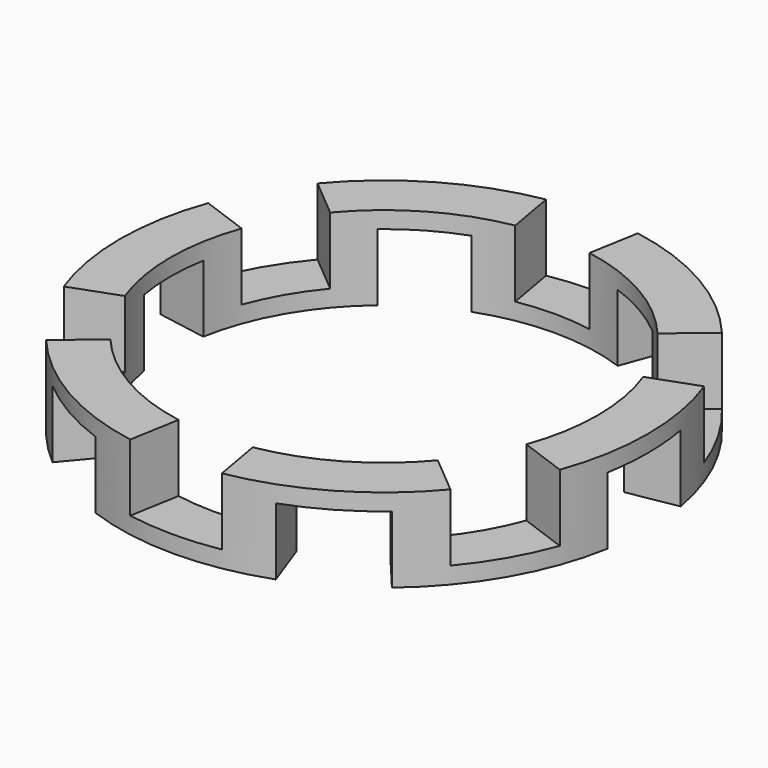
from build123d import *

# Parameters (mm, degrees)
F0_R     = 31.5
F0_R_2   = 25.5
F1_DEPTH = 5
F5_DEPTH = 25
F7_DEPTH = 25
F8_DEPTH = 4.25
F9_DEPTH = 4.25


with BuildPart() as f1:
    # F0 (on Top) → F1 (new body, symmetric)
    with BuildSketch(Plane.XY):
        Circle(F0_R)
        Circle(F0_R_2, mode=Mode.SUBTRACT)
    extrude(amount=F1_DEPTH, both=True)

    # F4 (on offset) → F5 (cut)
    with BuildSketch(Plane.XY.offset(1.25)):
        with BuildLine():
            ThreePointArc((19.5341332995, 16.391084047), (22.0836477965, 12.75), (23.96216183, 8.7215136548))
            Line((23.96216183, 8.7215136548), (29.6003175548, 10.7736345148))
            ThreePointArc((29.6003175548, 10.7736345148), (27.2798002192, 15.75), (24.1303999582, 20.2478097051))
            Line((24.1303999582, 20.2478097051), (19.5341332995, 16.391084047))
        make_face()
        with BuildLine():
            Line((-5.4699175965, 31.0214442199), (-4.4280285305, 25.1125977018))
            ThreePointArc((-4.4280285305, 25.1125977018), (0, 25.5), (4.4280285305, 25.1125977018))
            Line((4.4280285305, 25.1125977018), (5.4699175965, 31.0214442199))
            ThreePointArc((5.4699175965, 31.0214442199), (0, 31.5), (-5.4699175965, 31.0214442199))
        make_face()
        with BuildLine():
            Line((-29.6003175548, 10.7736345148), (-23.96216183, 8.7215136548))
            ThreePointArc((-23.96216183, 8.7215136548), (-22.0836477965, 12.75), (-19.5341332995, 16.391084047))
            Line((-19.5341332995, 16.391084047), (-24.1303999582, 20.2478097051))
            ThreePointArc((-24.1303999582, 20.2478097051), (-27.2798002192, 15.75), (-29.6003175548, 10.7736345148))
        make_face()
        with BuildLine():
            Line((-24.1303999582, -20.2478097051), (-19.5341332995, -16.391084047))
            ThreePointArc((-19.5341332995, -16.391084047), (-22.0836477965, -12.75), (-23.96216183, -8.7215136548))
            Line((-23.96216183, -8.7215136548), (-29.6003175548, -10.7736345148))
            ThreePointArc((-29.6003175548, -10.7736345148), (-27.2798002192, -15.75), (-24.1303999582, -20.2478097051))
        make_face()
        with BuildLine():
            Line((5.4699175965, -31.0214442199), (4.4280285305, -25.1125977018))
            ThreePointArc((4.4280285305, -25.1125977018), (0, -25.5), (-4.4280285305, -25.1125977018))
            Line((-4.4280285305, -25.1125977018), (-5.4699175965, -31.0214442199))
            ThreePointArc((-5.4699175965, -31.0214442199), (0, -31.5), (5.4699175965, -31.0214442199))
        make_face()
        with BuildLine():
            Line((29.6003175548, -10.7736345148), (23.96216183, -8.7215136548))
            ThreePointArc((23.96216183, -8.7215136548), (22.0836477965, -12.75), (19.5341332995, -16.391084047))
            Line((19.5341332995, -16.391084047), (24.1303999582, -20.2478097051))
            ThreePointArc((24.1303999582, -20.2478097051), (27.2798002192, -15.75), (29.6003175548, -10.7736345148))
        make_face()
    extrude(amount=F5_DEPTH, mode=Mode.SUBTRACT)

    # F6 (on offset) → F7 (cut)
    with BuildSketch(Plane.XY.offset(-1.25)):
        with BuildLine():
            Line((10.7736345148, 29.6003175548), (8.7215136548, 23.96216183))
            ThreePointArc((8.7215136548, 23.96216183), (12.75, 22.0836477965), (16.391084047, 19.5341332995))
            Line((16.391084047, 19.5341332995), (20.2478097051, 24.1303999582))
            ThreePointArc((20.2478097051, 24.1303999582), (15.75, 27.2798002192), (10.7736345148, 29.6003175548))
        make_face()
        with BuildLine():
            Line((-8.7215136548, 23.96216183), (-10.7736345148, 29.6003175548))
            ThreePointArc((-10.7736345148, 29.6003175548), (-15.75, 27.2798002192), (-20.2478097051, 24.1303999582))
            Line((-20.2478097051, 24.1303999582), (-16.391084047, 19.5341332995))
            ThreePointArc((-16.391084047, 19.5341332995), (-12.75, 22.0836477965), (-8.7215136548, 23.96216183))
        make_face()
        with BuildLine():
            Line((-25.1125977018, 4.4280285305), (-31.0214442199, 5.4699175965))
            ThreePointArc((-31.0214442199, 5.4699175965), (-31.5, 0), (-31.0214442199, -5.4699175965))
            Line((-31.0214442199, -5.4699175965), (-25.1125977018, -4.4280285305))
            ThreePointArc((-25.1125977018, -4.4280285305), (-25.5, 0), (-25.1125977018, 4.4280285305))
        make_face()
        with BuildLine():
            Line((-16.391084047, -19.5341332995), (-20.2478097051, -24.1303999582))
            ThreePointArc((-20.2478097051, -24.1303999582), (-15.75, -27.2798002192), (-10.7736345148, -29.6003175548))
            Line((-10.7736345148, -29.6003175548), (-8.7215136548, -23.96216183))
            ThreePointArc((-8.7215136548, -23.96216183), (-12.75, -22.0836477965), (-16.391084047, -19.5341332995))
        make_face()
        with BuildLine():
            Line((8.7215136548, -23.96216183), (10.7736345148, -29.6003175548))
            ThreePointArc((10.7736345148, -29.6003175548), (15.75, -27.2798002192), (20.2478097051, -24.1303999582))
            Line((20.2478097051, -24.1303999582), (16.391084047, -19.5341332995))
            ThreePointArc((16.391084047, -19.5341332995), (12.75, -22.0836477965), (8.7215136548, -23.96216183))
        make_face()
        with BuildLine():
            Line((25.1125977018, -4.4280285305), (31.0214442199, -5.4699175965))
            ThreePointArc((31.0214442199, -5.4699175965), (31.5, 0), (31.0214442199, 5.4699175965))
            Line((31.0214442199, 5.4699175965), (25.1125977018, 4.4280285305))
            ThreePointArc((25.1125977018, 4.4280285305), (25.5, 0), (25.1125977018, -4.4280285305))
        make_face()
    extrude(amount=-F7_DEPTH, mode=Mode.SUBTRACT)

    # F8 (cut): faces of the model
    f8_faces = [f1.faces().sort_by_distance(p)[0] for p in [
        (-24.6473051281, -14.2301282505, 1.25),
        (-24.6473051281, 14.2301282505, 1.25),
        (0, 28.460256501, 1.25),
        (24.6473051281, 14.2301282505, 1.25),
        (24.6473051281, -14.2301282505, 1.25),
        (0, -28.460256501, 1.25),
    ]]
    extrude(f8_faces, amount=-F8_DEPTH, mode=Mode.SUBTRACT)

    # F9 (cut): faces of the model
    f9_faces = [f1.faces().sort_by_distance(p)[0] for p in [
        (-14.2301282505, -24.6473051281, -1.25),
        (14.2301282505, -24.6473051281, -1.25),
        (28.460256501, 0, -1.25),
        (14.2301282505, 24.6473051281, -1.25),
        (-14.2301282505, 24.6473051281, -1.25),
        (-28.460256501, 0, -1.25),
    ]]
    extrude(f9_faces, amount=-F9_DEPTH, mode=Mode.SUBTRACT)


solid = f1.part
